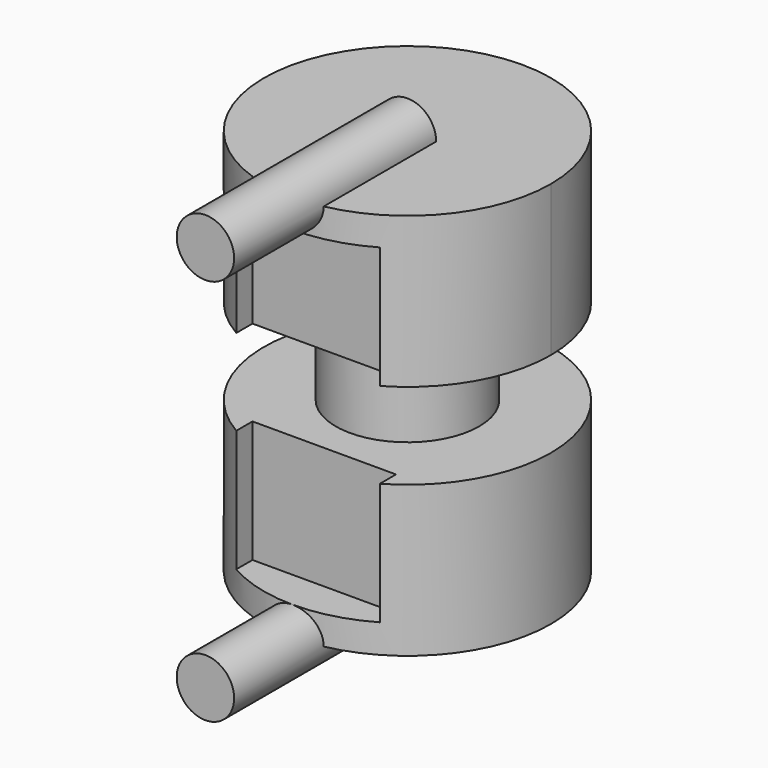
from build123d import *

# Parameters (mm, degrees)
F0_R          = 20
F1_DEPTH      = 27
F2_W          = 19.3877541561
F2_H          = 12
F5_R          = 4
F6_DEPTH      = 35.2
F7_W          = 20
F7_H          = 11.4580463721
F8_DEPTH      = 17
F8_DEPTH_BACK = 29


with BuildPart() as f1:
    # F0 (on Top) → F1 (new body, symmetric)
    with BuildSketch(Plane.XY):
        Circle(F0_R)
    extrude(amount=F1_DEPTH, both=True)

    # F2 (on Front) → F4 (revolve, cut)
    with BuildSketch(Plane.XZ):
        with Locations((19.6938770781, 0)):
            Rectangle(F2_W, F2_H)
    revolve(axis=Axis((0, 0, 0.1814514399), (0, 0, -1)), mode=Mode.SUBTRACT)

    # F5 (on Front) → F6 (join)
    with BuildSketch(Plane.XZ):
        with Locations((0, 27)):
            Circle(F5_R)
        with Locations((0, -27)):
            Circle(F5_R)
    extrude(amount=F6_DEPTH)

    # F7 (on face) → F8 (cut, two sides)
    with BuildSketch(Plane.XY.offset(-6)) as f8_sk:
        with Locations((0, -20.229023186)):
            Rectangle(F7_W, F7_H)
    extrude(amount=-F8_DEPTH, mode=Mode.SUBTRACT)
    extrude(f8_sk.sketch, amount=F8_DEPTH_BACK, mode=Mode.SUBTRACT)


solid = f1.part
